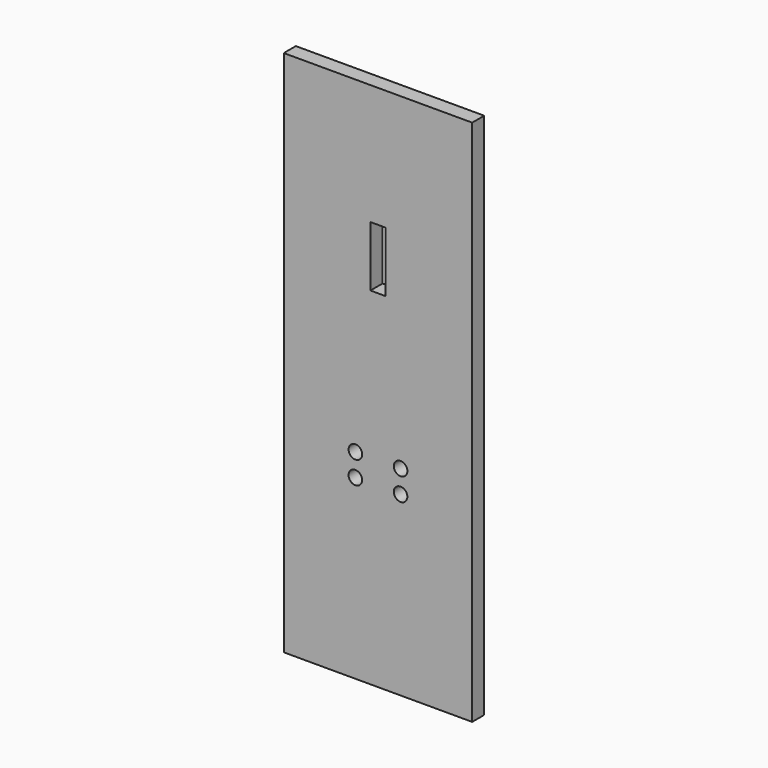
from build123d import *

# Parameters (mm, degrees)
F0_W     = 25
F0_H     = 70
F0_R     = 0.9
F0_W_2   = 2
F0_H_2   = 8
F1_DEPTH = 2


with BuildPart() as f1:
    # F0 (on Front) → F1 (new body)
    with BuildSketch(Plane.XZ):
        Rectangle(F0_W, F0_H)
        with Locations((-3, -11.5)):
            Circle(F0_R, mode=Mode.SUBTRACT)
        with Locations((-3, -8.5)):
            Circle(F0_R, mode=Mode.SUBTRACT)
        with Locations((3, -11.5)):
            Circle(F0_R, mode=Mode.SUBTRACT)
        with Locations((3, -8.5)):
            Circle(F0_R, mode=Mode.SUBTRACT)
        with Locations((0, 15)):
            Rectangle(F0_W_2, F0_H_2, mode=Mode.SUBTRACT)
    extrude(amount=F1_DEPTH)


solid = f1.part
